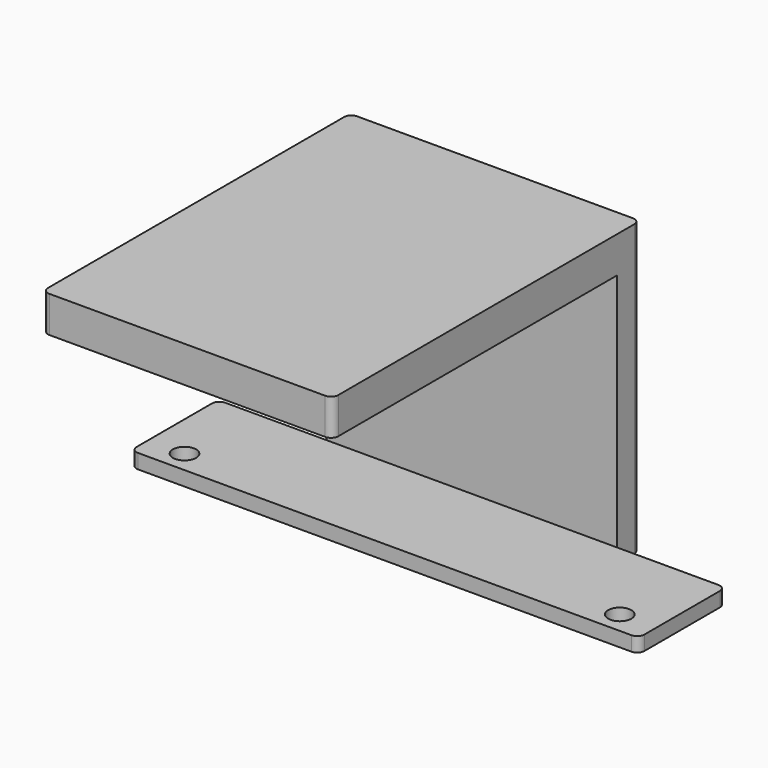
from build123d import *

# Parameters (mm, degrees)
SKETCH_W        = 70
SKETCH_H        = 15
SKETCH_R        = 1.6
PAD_DEPTH       = 2
SKETCH001_W     = 40
SKETCH001_H     = 40
PAD001_DEPTH    = 4
SKETCH002_W     = 40
SKETCH002_H     = 49
PAD002_DEPTH    = 5
POCKET_DEPTH    = 2
SKETCH004_W     = 9.75
SKETCH004_H     = 12.5
POCKET001_DEPTH = 1.5
SKETCH005_R     = 0.925
POCKET002_DEPTH = 2.25
FILLET_R        = 1


with BuildPart() as part:
    # Sketch → Pad (new body)
    with BuildSketch(Plane.XY):
        with Locations((35, 7.5)):
            Rectangle(SKETCH_W, SKETCH_H)
        with Locations((5, 3)):
            Circle(SKETCH_R, mode=Mode.SUBTRACT)
        with Locations((65, 3)):
            Circle(SKETCH_R, mode=Mode.SUBTRACT)
    extrude(amount=PAD_DEPTH)

    # Sketch001 (on Face3 of Pad) → Pad001 (join)
    with BuildSketch(Plane(origin=(0, 15, 0), x_dir=(-1, 0, 0), z_dir=(0, 1, 0))):
        with Locations((-35, 20)):
            Rectangle(SKETCH001_W, SKETCH001_H)
    extrude(amount=PAD001_DEPTH)

    # Sketch002 (on Face15 of Pad001) → Pad002 (join)
    with BuildSketch(Plane.XY.offset(40)):
        with Locations((35, -9.5)):
            Rectangle(SKETCH002_W, SKETCH002_H)
    extrude(amount=-PAD002_DEPTH)

    # Sketch003 (on Face15 of Pad002) → Pocket (cut)
    with BuildSketch(Plane(origin=(0, 0, 35), x_dir=(1, 0, 0), z_dir=(0, 0, -1))):
        Polygon((19.75, 32), (50.25, 32), (50.25, 1.5), (19.75, 1.5), (19.75, 10.5), (15, 10.5), (15, 23), (19.75, 23), align=None)
    extrude(amount=-POCKET_DEPTH, mode=Mode.SUBTRACT)

    # Sketch004 (on Face28 of Pocket) → Pocket001 (cut)
    with BuildSketch(Plane(origin=(0, 0, 37), x_dir=(1, 0, 0), z_dir=(0, 0, -1))):
        with Locations((19.875, 16.75)):
            Rectangle(SKETCH004_W, SKETCH004_H)
    extrude(amount=-POCKET001_DEPTH, mode=Mode.SUBTRACT)

    # Sketch005 (on Face31 of Pocket001) → Pocket002 (cut)
    with BuildSketch(Plane(origin=(0, 0, 37), x_dir=(1, 0, 0), z_dir=(0, 0, -1))):
        with Locations((27.25, 24.75)):
            Circle(SKETCH005_R)
        with Locations((42.25, 24.75)):
            Circle(SKETCH005_R)
        with Locations((27.25, 8.75)):
            Circle(SKETCH005_R)
        with Locations((42.25, 8.75)):
            Circle(SKETCH005_R)
    extrude(amount=-POCKET002_DEPTH, mode=Mode.SUBTRACT)

    # Fillet
    fillet_edges = [part.edges().sort_by_distance(p)[0] for p in [
        (70, 0, 1),
        (70, 15, 1),
        (0, 0, 1),
        (0, 15, 1),
        (15, -34, 37.5),
        (55, -34, 37.5),
        (15, 19, 20),
        (55, 19, 20),
    ]]
    fillet(fillet_edges, radius=FILLET_R)


solid = part.part
